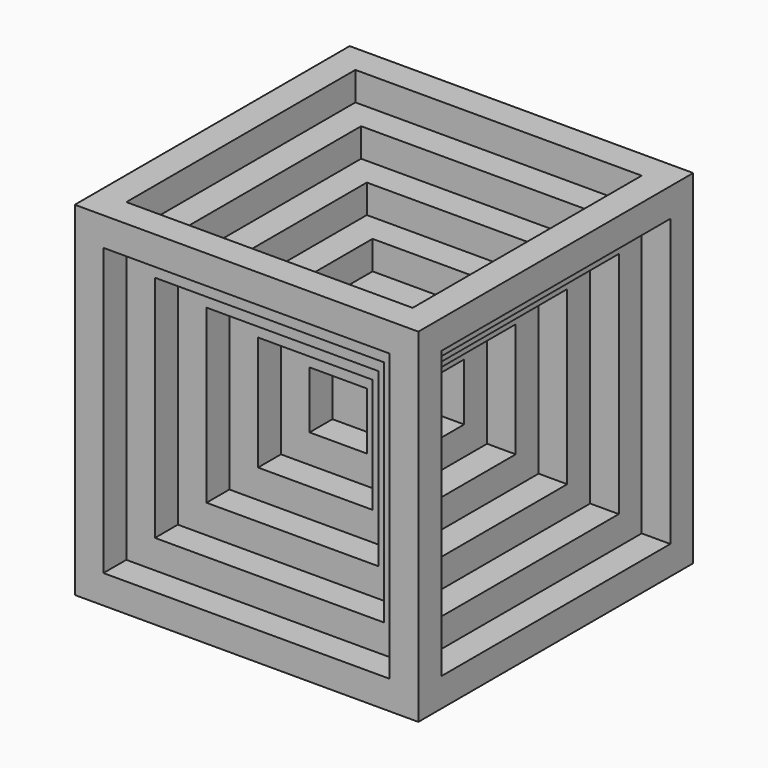
from build123d import *

# Parameters (mm, degrees)
F0_W      = 76.2
F0_H      = 76.2
F1_DEPTH  = 38.1
F2_W      = 63.5
F2_H      = 63.5
F3_DEPTH  = 38.1
F4_W      = 63.5
F4_H      = 63.5
F5_DEPTH  = 38.1
F6_W      = 63.5
F6_H      = 63.5
F7_DEPTH  = 38.1
F8_DEPTH  = 31.75
F9_W      = 50.8
F9_H      = 50.8
F10_DEPTH = 31.75
F11_W     = 50.8
F11_H     = 50.8
F12_DEPTH = 31.75
F13_W     = 50.8
F13_H     = 50.8
F14_DEPTH = 31.75
F15_DEPTH = 25.4
F16_W     = 38.1
F16_H     = 38.1
F17_DEPTH = 25.4
F18_W     = 38.1
F18_H     = 38.1
F19_DEPTH = 25.4
F20_W     = 38.1
F20_H     = 38.1
F21_DEPTH = 25.4
F22_DEPTH = 19.05
F23_W     = 25.4
F23_H     = 25.4
F24_DEPTH = 19.05
F25_W     = 25.4
F25_H     = 25.4
F26_DEPTH = 19.05
F27_W     = 25.4
F27_H     = 25.4
F28_DEPTH = 63.5
F29_DEPTH = 12.7
F30_W     = 12.7
F30_H     = 12.7
F31_DEPTH = 12.7
F32_W     = 12.7
F32_H     = 12.7
F33_DEPTH = 12.7
F34_W     = 12.7
F34_H     = 12.7
F35_DEPTH = 12.7
F36_DEPTH = 6.35


with BuildPart() as f1:
    # F0 (on Top) → F1 (new body, symmetric)
    with BuildSketch(Plane.XY):
        Rectangle(F0_W, F0_H)
    extrude(amount=F1_DEPTH, both=True)

    # F2 (on Right) → F3 (cut, symmetric)
    with BuildSketch(Plane.YZ):
        Rectangle(F2_W, F2_H)
    extrude(amount=F3_DEPTH, both=True, mode=Mode.SUBTRACT)

    # F4 (on Front) → F5 (cut, symmetric)
    with BuildSketch(Plane.XZ):
        Rectangle(F4_W, F4_H)
    extrude(amount=F5_DEPTH, both=True, mode=Mode.SUBTRACT)

    # F6 (on Top) → F7 (cut, symmetric)
    with BuildSketch(Plane.XY):
        Rectangle(F6_W, F6_H)
    extrude(amount=F7_DEPTH, both=True, mode=Mode.SUBTRACT)


with BuildPart() as f8:
    # F6 (on Top) → F8 (new body, symmetric)
    with BuildSketch(Plane.XY):
        Rectangle(F6_W, F6_H)
    extrude(amount=F8_DEPTH, both=True)

    # F9 (on Right) → F10 (cut, symmetric)
    with BuildSketch(Plane.YZ):
        Rectangle(F9_W, F9_H)
    extrude(amount=F10_DEPTH, both=True, mode=Mode.SUBTRACT)

    # F11 (on Front) → F12 (cut, symmetric)
    with BuildSketch(Plane.XZ):
        Rectangle(F11_W, F11_H)
    extrude(amount=F12_DEPTH, both=True, mode=Mode.SUBTRACT)

    # F13 (on Top) → F14 (cut, symmetric)
    with BuildSketch(Plane.XY):
        Rectangle(F13_W, F13_H)
    extrude(amount=F14_DEPTH, both=True, mode=Mode.SUBTRACT)


with BuildPart() as f15:
    # F13 (on Top) → F15 (new body, symmetric)
    with BuildSketch(Plane.XY):
        Rectangle(F13_W, F13_H)
    extrude(amount=F15_DEPTH, both=True)

    # F16 (on Top) → F17 (cut, symmetric)
    with BuildSketch(Plane.XY):
        Rectangle(F16_W, F16_H)
    extrude(amount=F17_DEPTH, both=True, mode=Mode.SUBTRACT)

    # F18 (on Right) → F19 (cut, symmetric)
    with BuildSketch(Plane.YZ):
        Rectangle(F18_W, F18_H)
    extrude(amount=F19_DEPTH, both=True, mode=Mode.SUBTRACT)

    # F20 (on Front) → F21 (cut, symmetric)
    with BuildSketch(Plane.XZ):
        Rectangle(F20_W, F20_H)
    extrude(amount=F21_DEPTH, both=True, mode=Mode.SUBTRACT)


with BuildPart() as f22:
    # F20 (on Front) → F22 (new body, symmetric)
    with BuildSketch(Plane.XZ):
        Rectangle(F20_W, F20_H)
    extrude(amount=F22_DEPTH, both=True)

    # F23 (on Front) → F24 (cut, symmetric)
    with BuildSketch(Plane.XZ):
        Rectangle(F23_W, F23_H)
    extrude(amount=F24_DEPTH, both=True, mode=Mode.SUBTRACT)

    # F25 (on Right) → F26 (cut, symmetric)
    with BuildSketch(Plane.YZ):
        Rectangle(F25_W, F25_H)
    extrude(amount=F26_DEPTH, both=True, mode=Mode.SUBTRACT)

    # F27 (on face) → F28 (cut, symmetric)
    with BuildSketch(Plane(origin=(0, 0, -19.05), x_dir=(1, 0, 0), z_dir=(0, 0, -1))):
        Rectangle(F27_W, F27_H)
    extrude(amount=F28_DEPTH, both=True, mode=Mode.SUBTRACT)


with BuildPart() as f29:
    # F25 (on Right) → F29 (new body, symmetric)
    with BuildSketch(Plane.YZ):
        Rectangle(F25_W, F25_H)
    extrude(amount=F29_DEPTH, both=True)

    # F30 (on Front) → F31 (cut, symmetric)
    with BuildSketch(Plane.XZ):
        Rectangle(F30_W, F30_H)
    extrude(amount=F31_DEPTH, both=True, mode=Mode.SUBTRACT)

    # F32 (on Right) → F33 (cut, symmetric)
    with BuildSketch(Plane.YZ):
        Rectangle(F32_W, F32_H)
    extrude(amount=F33_DEPTH, both=True, mode=Mode.SUBTRACT)

    # F34 (on Top) → F35 (cut, symmetric)
    with BuildSketch(Plane.XY):
        Rectangle(F34_W, F34_H)
    extrude(amount=F35_DEPTH, both=True, mode=Mode.SUBTRACT)


with BuildPart() as f36:
    # F34 (on Top) → F36 (new body, symmetric)
    with BuildSketch(Plane.XY):
        Rectangle(F34_W, F34_H)
    extrude(amount=F36_DEPTH, both=True)


solid = Compound([f1.part, f8.part, f15.part, f22.part, f29.part, f36.part])
